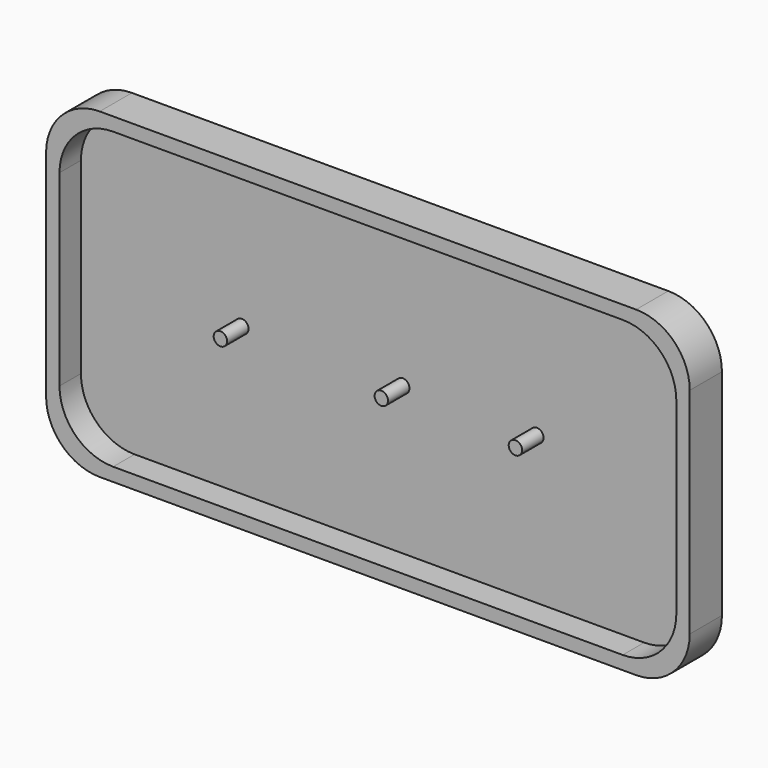
from build123d import *

# Parameters (mm, degrees)
F1_DEPTH = 19.05
F2_DEPTH = 6.35
F4_DEPTH = 12.7


with BuildPart() as f1:
    # F0 (on Front) → F1 (new body)
    with BuildSketch(Plane.XZ):
        with BuildLine():
            ThreePointArc((0, 25.4), (7.4394877579, 7.4394877579), (25.4, 0))
            Line((25.4, 0), (279.4, 0))
            ThreePointArc((279.4, 0), (297.3605122421, 7.4394877579), (304.8, 25.4))
            Line((304.8, 25.4), (304.8, 76.2))
            Line((304.8, 76.2), (298.45, 76.2))
            Line((298.45, 76.2), (298.45, 31.75))
            ThreePointArc((298.45, 31.75), (291.0105122421, 13.7894877579), (273.05, 6.35))
            Line((273.05, 6.35), (31.75, 6.35))
            ThreePointArc((31.75, 6.35), (13.7894877579, 13.7894877579), (6.35, 31.75))
            Line((6.35, 31.75), (6.35, 76.2))
            Line((6.35, 76.2), (0, 76.2))
            Line((0, 76.2), (0, 25.4))
        make_face()
        with BuildLine():
            Line((0, 127), (0, 76.2))
            Line((0, 76.2), (6.35, 76.2))
            Line((6.35, 76.2), (6.35, 120.65))
            ThreePointArc((6.35, 120.65), (13.7894877579, 138.6105122421), (31.75, 146.05))
            Line((31.75, 146.05), (273.05, 146.05))
            ThreePointArc((273.05, 146.05), (291.0105122421, 138.6105122421), (298.45, 120.65))
            Line((298.45, 120.65), (298.45, 76.2))
            Line((298.45, 76.2), (304.8, 76.2))
            Line((304.8, 76.2), (304.8, 127))
            ThreePointArc((304.8, 127), (297.3605122421, 144.9605122421), (279.4, 152.4))
            Line((279.4, 152.4), (25.4, 152.4))
            ThreePointArc((25.4, 152.4), (7.4394877579, 144.9605122421), (0, 127))
        make_face()
    extrude(amount=F1_DEPTH)

    # F0 (on Front) → F2 (join)
    with BuildSketch(Plane.XZ):
        with BuildLine():
            Line((6.35, 120.65), (6.35, 76.2))
            Line((6.35, 76.2), (298.45, 76.2))
            Line((298.45, 76.2), (298.45, 120.65))
            ThreePointArc((298.45, 120.65), (291.0105122421, 138.6105122421), (273.05, 146.05))
            Line((273.05, 146.05), (31.75, 146.05))
            ThreePointArc((31.75, 146.05), (13.7894877579, 138.6105122421), (6.35, 120.65))
        make_face()
        with BuildLine():
            Line((298.45, 76.2), (6.35, 76.2))
            Line((6.35, 76.2), (6.35, 31.75))
            ThreePointArc((6.35, 31.75), (13.7894877579, 13.7894877579), (31.75, 6.35))
            Line((31.75, 6.35), (273.05, 6.35))
            ThreePointArc((273.05, 6.35), (291.0105122421, 13.7894877579), (298.45, 31.75))
            Line((298.45, 31.75), (298.45, 76.2))
        make_face()
    extrude(amount=F2_DEPTH)

    # F3 (on face) → F4 (join)
    with BuildSketch(Plane.XZ.offset(6.35)):
        with BuildLine():
            Line((79.375, 76.2), (85.725, 76.2))
            ThreePointArc((85.725, 76.2), (82.55, 79.375), (79.375, 76.2))
        make_face()
        with BuildLine():
            ThreePointArc((79.375, 76.2), (82.55, 73.025), (85.725, 76.2))
            Line((85.725, 76.2), (79.375, 76.2))
        make_face()
        with BuildLine():
            ThreePointArc((155.575, 76.2), (158.75, 73.025), (161.925, 76.2))
            Line((161.925, 76.2), (155.575, 76.2))
        make_face()
        with BuildLine():
            Line((155.575, 76.2), (161.925, 76.2))
            ThreePointArc((161.925, 76.2), (158.75, 79.375), (155.575, 76.2))
        make_face()
        with BuildLine():
            ThreePointArc((219.075, 76.2), (222.25, 73.025), (225.425, 76.2))
            Line((225.425, 76.2), (219.075, 76.2))
        make_face()
        with BuildLine():
            Line((219.075, 76.2), (225.425, 76.2))
            ThreePointArc((225.425, 76.2), (222.25, 79.375), (219.075, 76.2))
        make_face()
    extrude(amount=F4_DEPTH)


solid = f1.part
